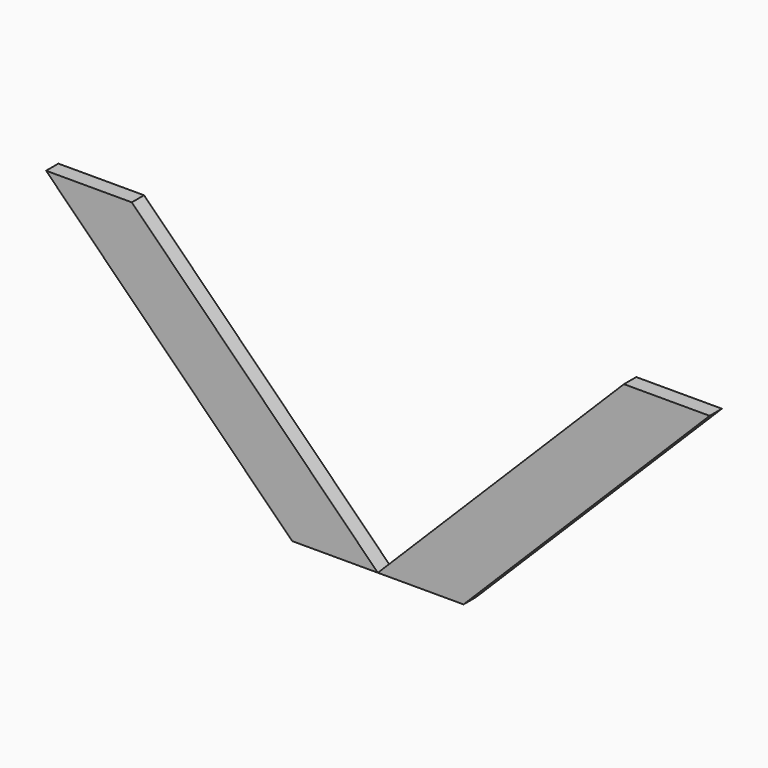
from build123d import *

# Parameters (mm, degrees)
F2_DEPTH = 12.7


with BuildPart() as f2:
    # F1 (on face) → F2 (new body)
    with BuildSketch(Plane.XZ):
        Polygon((273.971599, 203.2), (203.2, 203.2), (0, 0), (70.771599, 0), align=None)
    extrude(amount=F2_DEPTH)


with BuildPart() as f3_1:
    # F3: instance of F2
    add(f2.part.mirror(Plane.YZ))


solid = Compound([f2.part, f3_1.part])
